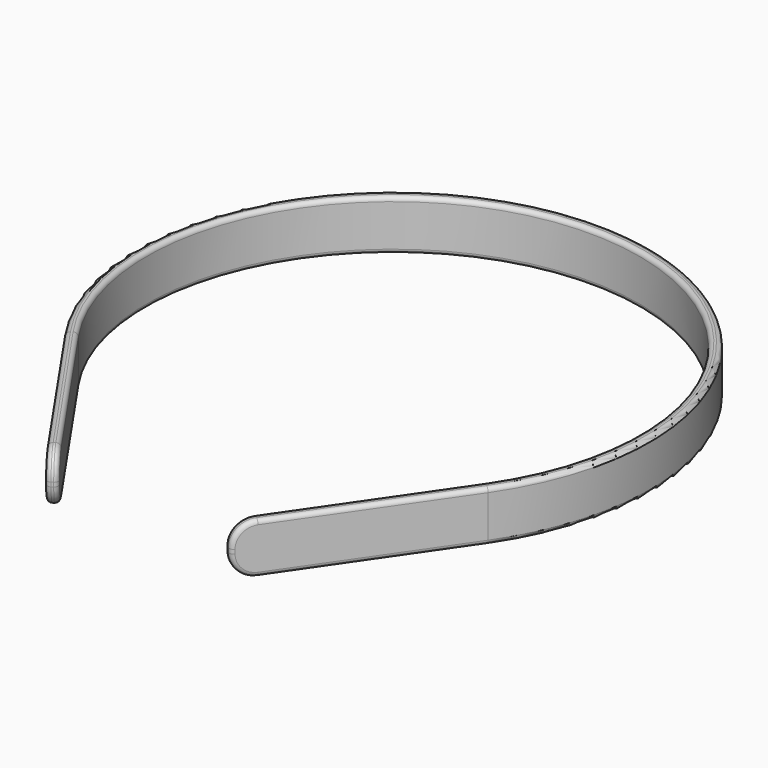
from build123d import *

# Parameters (mm, degrees)
F1_DEPTH = 12
F2_R     = 5.5
F3_R     = 1


with BuildPart() as f1:
    # F0 (on Top) → F1 (new body)
    with BuildSketch(Plane.XY):
        with BuildLine():
            ThreePointArc((-48.598922, -33.453621), (0, 59), (48.598922, -33.453621))
            Line((48.598922, -33.453621), (20, -75))
            Line((20, -75), (22.059276, -76.417526))
            Line((22.059276, -76.417526), (50.658199, -34.871147))
            ThreePointArc((50.658199, -34.871147), (0, 61.5), (-50.658199, -34.871147))
            Line((-50.658199, -34.871147), (-22.059276, -76.417526))
            Line((-22.059276, -76.417526), (-20, -75))
            Line((-20, -75), (-48.598922, -33.453621))
        make_face()
    extrude(amount=F1_DEPTH)

    # F2
    f2_edges = [f1.edges().sort_by_distance(p)[0] for p in [
        (-21.029638, -75.708763, 0),
        (-21.029638, -75.708763, 12),
        (21.029638, -75.708763, 12),
        (21.029638, -75.708763, 0),
    ]]
    fillet(f2_edges, radius=F2_R)

    # F3
    f3_edges = [f1.edges().sort_by_distance(p)[0] for p in [
        (-37.918017, -53.379133, 12),
        (-35.85874, -51.961606, 0),
    ]]
    fillet(f3_edges, radius=F3_R)


solid = f1.part
